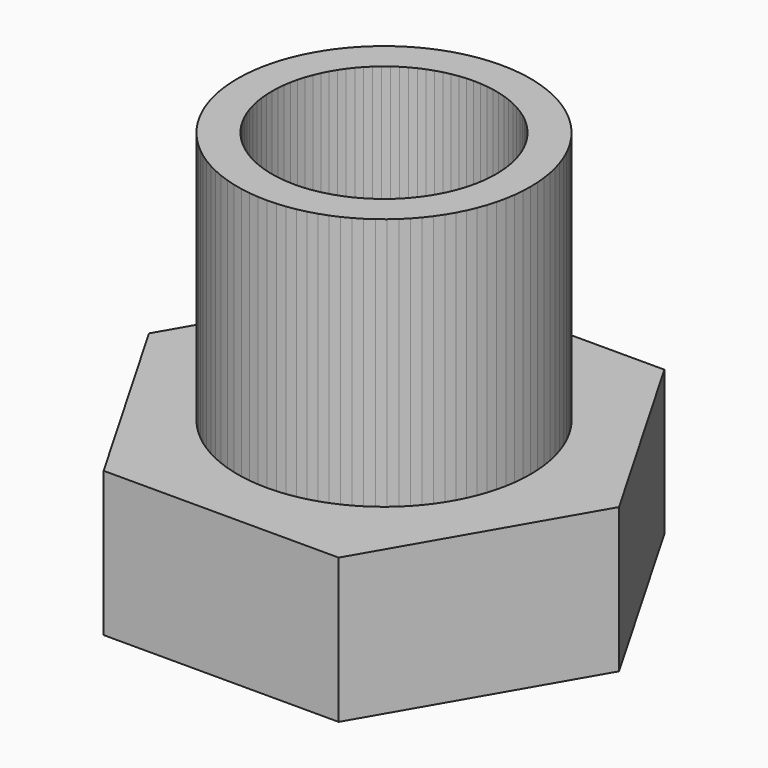
from build123d import *

# Parameters (mm, degrees)
PRISM003_DEPTH = 11.05
PRISM002_DEPTH = 4
PRISM001_DEPTH = 11.05
PRISM_DEPTH    = 11


with BuildPart() as prism003:
    # prism003 → prism003 (new body)
    with BuildSketch(Plane.XY.offset(-5.525)):
        Polygon((3.1, 0), (3.093883, 0.194651), (3.075556, 0.388533), (3.04509, 0.580882), (3.002608, 0.770939), (2.948275, 0.957953), (2.882307, 1.141186), (2.804964, 1.319916), (2.716551, 1.493436), (2.617417, 1.661063), (2.507953, 1.822134), (2.388591, 1.976014), (2.259803, 2.122096), (2.122096, 2.259803), (1.976014, 2.388591), (1.822134, 2.507953), (1.661063, 2.617417), (1.493436, 2.716551), (1.319916, 2.804964), (1.141186, 2.882307), (0.957953, 2.948275), (0.770939, 3.002608), (0.580882, 3.04509), (0.388533, 3.075556), (0.194651, 3.093883), (0, 3.1), (-0.194651, 3.093883), (-0.388533, 3.075556), (-0.580882, 3.04509), (-0.770939, 3.002608), (-0.957953, 2.948275), (-1.141186, 2.882307), (-1.319916, 2.804964), (-1.493436, 2.716551), (-1.661063, 2.617417), (-1.822134, 2.507953), (-1.976014, 2.388591), (-2.122096, 2.259803), (-2.259803, 2.122096), (-2.388591, 1.976014), (-2.507953, 1.822134), (-2.617417, 1.661063), (-2.716551, 1.493436), (-2.804964, 1.319916), (-2.882307, 1.141186), (-2.948275, 0.957953), (-3.002608, 0.770939), (-3.04509, 0.580882), (-3.075556, 0.388533), (-3.093883, 0.194651), (-3.1, 0), (-3.093883, -0.194651), (-3.075556, -0.388533), (-3.04509, -0.580882), (-3.002608, -0.770939), (-2.948275, -0.957953), (-2.882307, -1.141186), (-2.804964, -1.319916), (-2.716551, -1.493436), (-2.617417, -1.661063), (-2.507953, -1.822134), (-2.388591, -1.976014), (-2.259803, -2.122096), (-2.122096, -2.259803), (-1.976014, -2.388591), (-1.822134, -2.507953), (-1.661063, -2.617417), (-1.493436, -2.716551), (-1.319916, -2.804964), (-1.141186, -2.882307), (-0.957953, -2.948275), (-0.770939, -3.002608), (-0.580882, -3.04509), (-0.388533, -3.075556), (-0.194651, -3.093883), (0, -3.1), (0.194651, -3.093883), (0.388533, -3.075556), (0.580882, -3.04509), (0.770939, -3.002608), (0.957953, -2.948275), (1.141186, -2.882307), (1.319916, -2.804964), (1.493436, -2.716551), (1.661063, -2.617417), (1.822134, -2.507953), (1.976014, -2.388591), (2.122096, -2.259803), (2.259803, -2.122096), (2.388591, -1.976014), (2.507953, -1.822134), (2.617417, -1.661063), (2.716551, -1.493436), (2.804964, -1.319916), (2.882307, -1.141186), (2.948275, -0.957953), (3.002608, -0.770939), (3.04509, -0.580882), (3.075556, -0.388533), (3.093883, -0.194651), align=None)
    extrude(amount=PRISM003_DEPTH)


with BuildPart() as difference001:
    # prism002 → prism002 (new body)
    with BuildSketch(Plane.XY.offset(-2)):
        Polygon((6.5, 0), (3.25, 5.629165), (-3.25, 5.629165), (-6.5, 0), (-3.25, -5.629165), (3.25, -5.629165), align=None)
    extrude(amount=PRISM002_DEPTH)

    # difference001: cut prism003
    add(prism003.part, mode=Mode.SUBTRACT)


with BuildPart() as difference001_1:
    # difference001 placement: moved
    add(difference001.part.moved(Location((0, 0, 2))))


with BuildPart() as prism001:
    # prism001 → prism001 (new body)
    with BuildSketch(Plane.XY.offset(-5.525)):
        Polygon((3.1, 0), (3.093883, 0.194651), (3.075556, 0.388533), (3.04509, 0.580882), (3.002608, 0.770939), (2.948275, 0.957953), (2.882307, 1.141186), (2.804964, 1.319916), (2.716551, 1.493436), (2.617417, 1.661063), (2.507953, 1.822134), (2.388591, 1.976014), (2.259803, 2.122096), (2.122096, 2.259803), (1.976014, 2.388591), (1.822134, 2.507953), (1.661063, 2.617417), (1.493436, 2.716551), (1.319916, 2.804964), (1.141186, 2.882307), (0.957953, 2.948275), (0.770939, 3.002608), (0.580882, 3.04509), (0.388533, 3.075556), (0.194651, 3.093883), (0, 3.1), (-0.194651, 3.093883), (-0.388533, 3.075556), (-0.580882, 3.04509), (-0.770939, 3.002608), (-0.957953, 2.948275), (-1.141186, 2.882307), (-1.319916, 2.804964), (-1.493436, 2.716551), (-1.661063, 2.617417), (-1.822134, 2.507953), (-1.976014, 2.388591), (-2.122096, 2.259803), (-2.259803, 2.122096), (-2.388591, 1.976014), (-2.507953, 1.822134), (-2.617417, 1.661063), (-2.716551, 1.493436), (-2.804964, 1.319916), (-2.882307, 1.141186), (-2.948275, 0.957953), (-3.002608, 0.770939), (-3.04509, 0.580882), (-3.075556, 0.388533), (-3.093883, 0.194651), (-3.1, 0), (-3.093883, -0.194651), (-3.075556, -0.388533), (-3.04509, -0.580882), (-3.002608, -0.770939), (-2.948275, -0.957953), (-2.882307, -1.141186), (-2.804964, -1.319916), (-2.716551, -1.493436), (-2.617417, -1.661063), (-2.507953, -1.822134), (-2.388591, -1.976014), (-2.259803, -2.122096), (-2.122096, -2.259803), (-1.976014, -2.388591), (-1.822134, -2.507953), (-1.661063, -2.617417), (-1.493436, -2.716551), (-1.319916, -2.804964), (-1.141186, -2.882307), (-0.957953, -2.948275), (-0.770939, -3.002608), (-0.580882, -3.04509), (-0.388533, -3.075556), (-0.194651, -3.093883), (0, -3.1), (0.194651, -3.093883), (0.388533, -3.075556), (0.580882, -3.04509), (0.770939, -3.002608), (0.957953, -2.948275), (1.141186, -2.882307), (1.319916, -2.804964), (1.493436, -2.716551), (1.661063, -2.617417), (1.822134, -2.507953), (1.976014, -2.388591), (2.122096, -2.259803), (2.259803, -2.122096), (2.388591, -1.976014), (2.507953, -1.822134), (2.617417, -1.661063), (2.716551, -1.493436), (2.804964, -1.319916), (2.882307, -1.141186), (2.948275, -0.957953), (3.002608, -0.770939), (3.04509, -0.580882), (3.075556, -0.388533), (3.093883, -0.194651), align=None)
    extrude(amount=PRISM001_DEPTH)


with BuildPart() as group:
    # prism → prism (new body)
    with BuildSketch(Plane.XY.offset(-5.5)):
        Polygon((4.05, 0), (4.042008, 0.254302), (4.018065, 0.5076), (3.978263, 0.758894), (3.922762, 1.007194), (3.851779, 1.251519), (3.765595, 1.490904), (3.66455, 1.724406), (3.549042, 1.951102), (3.419528, 2.170099), (3.276519, 2.38053), (3.120579, 2.581567), (2.952323, 2.772416), (2.772416, 2.952323), (2.581567, 3.120579), (2.38053, 3.276519), (2.170099, 3.419528), (1.951102, 3.549042), (1.724406, 3.66455), (1.490904, 3.765595), (1.251519, 3.851779), (1.007194, 3.922762), (0.758894, 3.978263), (0.5076, 4.018065), (0.254302, 4.042008), (0, 4.05), (-0.254302, 4.042008), (-0.5076, 4.018065), (-0.758894, 3.978263), (-1.007194, 3.922762), (-1.251519, 3.851779), (-1.490904, 3.765595), (-1.724406, 3.66455), (-1.951102, 3.549042), (-2.170099, 3.419528), (-2.38053, 3.276519), (-2.581567, 3.120579), (-2.772416, 2.952323), (-2.952323, 2.772416), (-3.120579, 2.581567), (-3.276519, 2.38053), (-3.419528, 2.170099), (-3.549042, 1.951102), (-3.66455, 1.724406), (-3.765595, 1.490904), (-3.851779, 1.251519), (-3.922762, 1.007194), (-3.978263, 0.758894), (-4.018065, 0.5076), (-4.042008, 0.254302), (-4.05, 0), (-4.042008, -0.254302), (-4.018065, -0.5076), (-3.978263, -0.758894), (-3.922762, -1.007194), (-3.851779, -1.251519), (-3.765595, -1.490904), (-3.66455, -1.724406), (-3.549042, -1.951102), (-3.419528, -2.170099), (-3.276519, -2.38053), (-3.120579, -2.581567), (-2.952323, -2.772416), (-2.772416, -2.952323), (-2.581567, -3.120579), (-2.38053, -3.276519), (-2.170099, -3.419528), (-1.951102, -3.549042), (-1.724406, -3.66455), (-1.490904, -3.765595), (-1.251519, -3.851779), (-1.007194, -3.922762), (-0.758894, -3.978263), (-0.5076, -4.018065), (-0.254302, -4.042008), (0, -4.05), (0.254302, -4.042008), (0.5076, -4.018065), (0.758894, -3.978263), (1.007194, -3.922762), (1.251519, -3.851779), (1.490904, -3.765595), (1.724406, -3.66455), (1.951102, -3.549042), (2.170099, -3.419528), (2.38053, -3.276519), (2.581567, -3.120579), (2.772416, -2.952323), (2.952323, -2.772416), (3.120579, -2.581567), (3.276519, -2.38053), (3.419528, -2.170099), (3.549042, -1.951102), (3.66455, -1.724406), (3.765595, -1.490904), (3.851779, -1.251519), (3.922762, -1.007194), (3.978263, -0.758894), (4.018065, -0.5076), (4.042008, -0.254302), align=None)
    extrude(amount=PRISM_DEPTH)

    # difference: cut prism001
    add(prism001.part, mode=Mode.SUBTRACT)


with BuildPart() as group_1:
    # difference placement: moved
    add(group.part.moved(Location((0, 0, 5.5))))

    # Group: union difference001
    add(difference001_1.part)


solid = group_1.part
